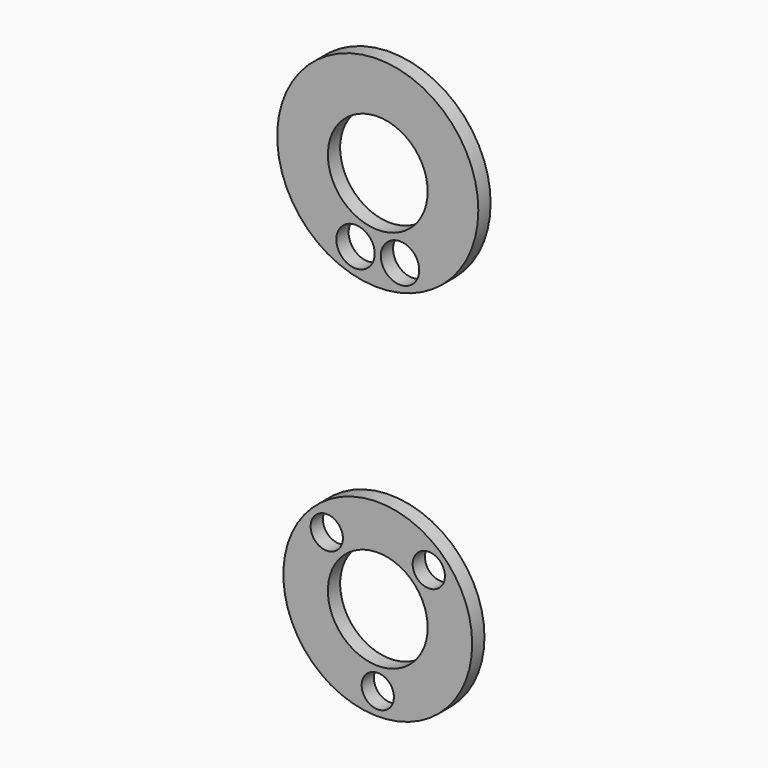
from build123d import *

# Parameters (mm, degrees)
F0_R     = 1.6637
F0_R_2   = 0.3175
F0_R_3   = 0.8255
F0_R_4   = 1.5621
F0_R_5   = 0.2667
F1_DEPTH = 0.254


with BuildPart() as f1:
    # F0 (on Front) → F1 (new body)
    with BuildSketch(Plane.XZ):
        Circle(F0_R)
        with Locations((-0.3683, -1.188858)):
            Circle(F0_R_2, mode=Mode.SUBTRACT)
        Circle(F0_R_3, mode=Mode.SUBTRACT)
        with Locations((0.3683, -1.188858)):
            Circle(F0_R_2, mode=Mode.SUBTRACT)
        with Locations((0, -6.35)):
            Circle(F0_R_4)
        with Locations((0, -7.5438)):
            Circle(F0_R_5, mode=Mode.SUBTRACT)
        with Locations((0, -6.35)):
            Circle(F0_R_3, mode=Mode.SUBTRACT)
        with Locations((-0.844144, -5.505856)):
            Circle(F0_R_5, mode=Mode.SUBTRACT)
        with Locations((0.844144, -5.505856)):
            Circle(F0_R_5, mode=Mode.SUBTRACT)
    extrude(amount=F1_DEPTH)


solid = f1.part
